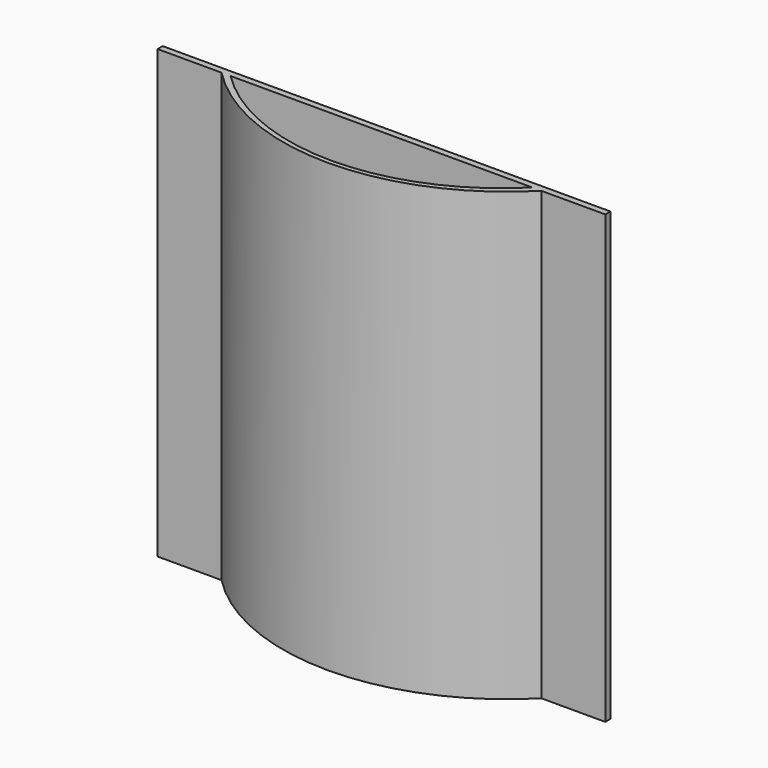
from build123d import *

# Parameters (mm, degrees)
F1_DEPTH = 69.85


with BuildPart() as f1:
    # F0 (on Top) → F1 (new body, symmetric)
    with BuildSketch(Plane.XY):
        with BuildLine():
            Line((-70, 0), (-50, 0))
            ThreePointArc((-50, 0), (0, -21.010205), (50, 0))
            Line((50, 0), (70, 0))
            Line((70, 0), (70, 2))
            Line((70, 2), (-70, 2))
            Line((-70, 2), (-70, 0))
        make_face()
        with BuildLine():
            ThreePointArc((47.159304, 0), (0, -19.58378), (-47.159304, 0))
            Line((-47.159304, 0), (47.159304, 0))
        make_face(mode=Mode.SUBTRACT)
    extrude(amount=F1_DEPTH, both=True)


solid = f1.part
